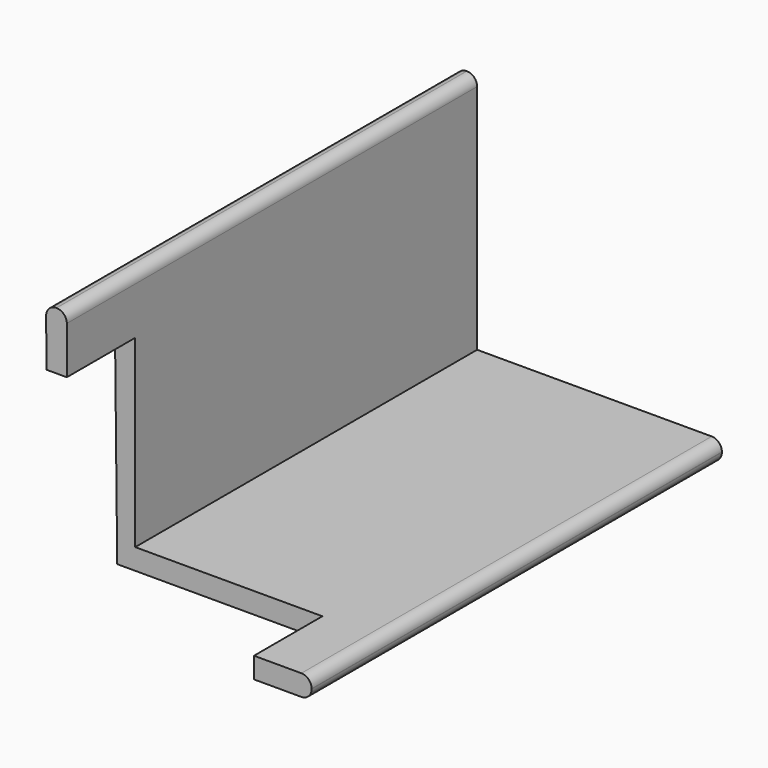
from build123d import *

# Parameters (mm, degrees)
F0_W     = 16.86
F0_H     = 6.1000012737
F1_DEPTH = 74.9
F2_DEPTH = 75.1
F3_R     = 3
F5_DEPTH = 25


with BuildPart() as f1:
    # F0 (on Front) → F1 (new body)
    with BuildSketch(Plane.XZ):
        Polygon((-32.5276732162, 32.1178423136), (-38.6276732162, 32.1178423136), (-38.444462499, 15.2623822779), (-32.5276732162, 15.3266949223), align=None)
        Polygon((-32.5276732162, 15.3266949223), (-38.444462499, 15.2623822779), (-37.7922914511, -44.7376177221), (22.2077085489, -44.7376177221), (22.2077085489, -38.6376164485), (-32.5276732162, -38.6376164485), align=None)
        with Locations((30.6377085489, -41.6876170853)):
            Rectangle(F0_W, F0_H)
    extrude(amount=F1_DEPTH)

    # F2 (add): a face of the model
    f2_faces = [f1.faces().sort_by_distance(p)[0] for p in [
        (-35.5776732162, 0, 31.0249866925),
    ]]
    extrude(f2_faces, amount=F2_DEPTH)

    # F3
    f3_edges = [f1.edges().sort_by_distance(p)[0] for p in [
        (-32.527673, 0.1, 32.117842),
        (-38.627673, 0.1, 32.117842),
        (39.067709, 0.1, -44.737618),
        (39.067709, 0.1, -38.637616),
    ]]
    fillet(f3_edges, radius=F3_R)

    # F4 (on face) → F5 (cut)
    with BuildSketch(Plane.XZ.offset(74.9)):
        Polygon((-32.5276732162, 15.2588381996), (-38.4444239765, 15.2588381996), (-37.7922914511, -44.7376177221), (22.2077085489, -44.7376177221), (22.2077085489, -38.6376164485), (-32.5276732162, -38.6376164485), (-32.5276732162, -35.7810780406), align=None)
    extrude(amount=-F5_DEPTH, mode=Mode.SUBTRACT)


solid = f1.part
